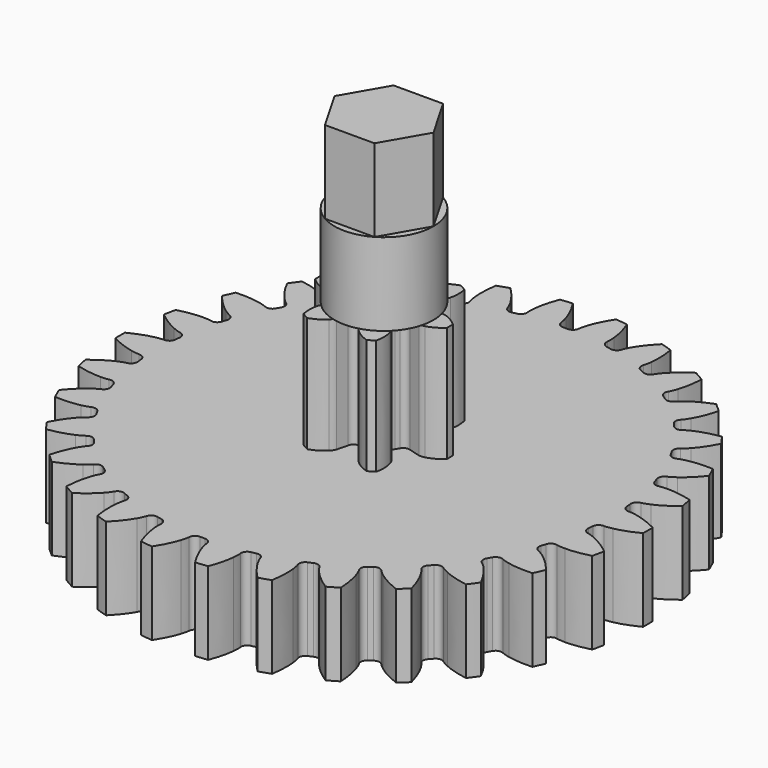
from build123d import *

# Parameters (mm, degrees)
PAD_DEPTH    = 12
PAD001_DEPTH = 5
SKETCH001_R  = 3
PAD002_DEPTH = 5
PAD003_DEPTH = 10
POCKET_DEPTH = 4


with BuildPart() as part:
    # InvoluteGear → Pad (new body)
    with BuildSketch(Plane.XY):
        with BuildLine():
            Line((2.048977, -0.581887), (2.72703, -0.773279))
            add(Edge.make_bspline(
                [(2.72703, -0.773279), (2.765243, -0.779962), (2.879401, -0.792186), (3.077442, -0.74689)],
                knots=[0, 0, 0, 0, 1, 1, 1, 1], degree=3))
            add(Edge.make_bspline(
                [(3.077442, -0.74689), (3.310056, -0.690259), (3.633581, -0.553387), (3.995454, -0.233784)],
                knots=[0, 0, 0, 0, 1, 1, 1, 1], degree=3))
            ThreePointArc((3.995454, -0.233784), (4.001146, 0.000635), (3.993092, 0.234985))
            add(Edge.make_bspline(
                [(3.993092, 0.234985), (3.633581, 0.553387), (3.310056, 0.690259), (3.077442, 0.74689)],
                knots=[0, 0, 0, 0, 1, 1, 1, 1], degree=3))
            add(Edge.make_bspline(
                [(3.077442, 0.74689), (2.879401, 0.792186), (2.765243, 0.779962), (2.72703, 0.773279)],
                knots=[0, 0, 0, 0, 1, 1, 1, 1], degree=3))
            Line((2.72703, 0.773279), (2.048977, 0.581887))
            ThreePointArc((2.048977, 0.581887), (1.775589, 0.582403), (1.5733, 0.766307))
            ThreePointArc((1.5733, 0.766307), (1.515544, 0.875), (1.450292, 0.979364))
            ThreePointArc((1.450292, 0.979364), (1.39217, 1.246504), (1.528417, 1.483523))
            Line((1.528417, 1.483523), (2.033194, 1.975037))
            add(Edge.make_bspline(
                [(2.033194, 1.975037), (2.058089, 2.00479), (2.125754, 2.097541), (2.185546, 2.291698)],
                knots=[0, 0, 0, 0, 1, 1, 1, 1], degree=3))
            add(Edge.make_bspline(
                [(2.185546, 2.291698), (2.25281, 2.521463), (2.296038, 2.87008), (2.20019, 3.343273)],
                knots=[0, 0, 0, 0, 1, 1, 1, 1], degree=3))
            ThreePointArc((2.20019, 3.343273), (2.000023, 3.465412), (1.793043, 3.575611))
            add(Edge.make_bspline(
                [(1.793043, 3.575611), (1.337543, 3.423467), (1.057246, 3.211722), (0.891895, 3.038588)],
                knots=[0, 0, 0, 0, 1, 1, 1, 1], degree=3))
            add(Edge.make_bspline(
                [(0.891895, 3.038588), (0.753647, 2.889728), (0.707154, 2.784752), (0.693835, 2.748317)],
                knots=[0, 0, 0, 0, 1, 1, 1, 1], degree=3))
            Line((0.693835, 2.748317), (0.52056, 2.06541))
            ThreePointArc((0.52056, 2.06541), (0.383419, 1.828907), (0.123009, 1.745671))
            ThreePointArc((0.123009, 1.745671), (0, 1.75), (-0.123009, 1.745671))
            ThreePointArc((-0.123009, 1.745671), (-0.383419, 1.828907), (-0.52056, 2.06541))
            Line((-0.52056, 2.06541), (-0.693835, 2.748317))
            add(Edge.make_bspline(
                [(-0.693835, 2.748317), (-0.707154, 2.784752), (-0.753647, 2.889728), (-0.891895, 3.038588)],
                knots=[0, 0, 0, 0, 1, 1, 1, 1], degree=3))
            add(Edge.make_bspline(
                [(-0.891895, 3.038588), (-1.057246, 3.211722), (-1.337543, 3.423467), (-1.795264, 3.577057)],
                knots=[0, 0, 0, 0, 1, 1, 1, 1], degree=3))
            ThreePointArc((-1.795264, 3.577057), (-2.001123, 3.464777), (-2.200049, 3.340627))
            add(Edge.make_bspline(
                [(-2.200049, 3.340627), (-2.296038, 2.87008), (-2.25281, 2.521463), (-2.185546, 2.291698)],
                knots=[0, 0, 0, 0, 1, 1, 1, 1], degree=3))
            add(Edge.make_bspline(
                [(-2.185546, 2.291698), (-2.125754, 2.097541), (-2.058089, 2.00479), (-2.033194, 1.975037)],
                knots=[0, 0, 0, 0, 1, 1, 1, 1], degree=3))
            Line((-2.033194, 1.975037), (-1.528417, 1.483523))
            ThreePointArc((-1.528417, 1.483523), (-1.39217, 1.246504), (-1.450292, 0.979364))
            ThreePointArc((-1.450292, 0.979364), (-1.515544, 0.875), (-1.5733, 0.766307))
            ThreePointArc((-1.5733, 0.766307), (-1.775589, 0.582403), (-2.048977, 0.581887))
            Line((-2.048977, 0.581887), (-2.72703, 0.773279))
            add(Edge.make_bspline(
                [(-2.72703, 0.773279), (-2.765243, 0.779962), (-2.879401, 0.792186), (-3.077442, 0.74689)],
                knots=[0, 0, 0, 0, 1, 1, 1, 1], degree=3))
            add(Edge.make_bspline(
                [(-3.077442, 0.74689), (-3.310056, 0.690259), (-3.633581, 0.553387), (-3.995454, 0.233784)],
                knots=[0, 0, 0, 0, 1, 1, 1, 1], degree=3))
            ThreePointArc((-3.995454, 0.233784), (-4.001146, -0.000635), (-3.993092, -0.234985))
            add(Edge.make_bspline(
                [(-3.993092, -0.234985), (-3.633581, -0.553387), (-3.310056, -0.690259), (-3.077442, -0.74689)],
                knots=[0, 0, 0, 0, 1, 1, 1, 1], degree=3))
            add(Edge.make_bspline(
                [(-3.077442, -0.74689), (-2.879401, -0.792186), (-2.765243, -0.779962), (-2.72703, -0.773279)],
                knots=[0, 0, 0, 0, 1, 1, 1, 1], degree=3))
            Line((-2.72703, -0.773279), (-2.048977, -0.581887))
            ThreePointArc((-2.048977, -0.581887), (-1.775589, -0.582403), (-1.5733, -0.766307))
            ThreePointArc((-1.5733, -0.766307), (-1.515544, -0.875), (-1.450292, -0.979364))
            ThreePointArc((-1.450292, -0.979364), (-1.39217, -1.246504), (-1.528417, -1.483523))
            Line((-1.528417, -1.483523), (-2.033194, -1.975037))
            add(Edge.make_bspline(
                [(-2.033194, -1.975037), (-2.058089, -2.00479), (-2.125754, -2.097541), (-2.185546, -2.291698)],
                knots=[0, 0, 0, 0, 1, 1, 1, 1], degree=3))
            add(Edge.make_bspline(
                [(-2.185546, -2.291698), (-2.25281, -2.521463), (-2.296038, -2.87008), (-2.20019, -3.343273)],
                knots=[0, 0, 0, 0, 1, 1, 1, 1], degree=3))
            ThreePointArc((-2.20019, -3.343273), (-2.000023, -3.465412), (-1.793043, -3.575611))
            add(Edge.make_bspline(
                [(-1.793043, -3.575611), (-1.337543, -3.423467), (-1.057246, -3.211722), (-0.891895, -3.038588)],
                knots=[0, 0, 0, 0, 1, 1, 1, 1], degree=3))
            add(Edge.make_bspline(
                [(-0.891895, -3.038588), (-0.753647, -2.889728), (-0.707154, -2.784752), (-0.693835, -2.748317)],
                knots=[0, 0, 0, 0, 1, 1, 1, 1], degree=3))
            Line((-0.693835, -2.748317), (-0.52056, -2.06541))
            ThreePointArc((-0.52056, -2.06541), (-0.383419, -1.828907), (-0.123009, -1.745671))
            ThreePointArc((-0.123009, -1.745671), (0, -1.75), (0.123009, -1.745671))
            ThreePointArc((0.123009, -1.745671), (0.383419, -1.828907), (0.52056, -2.06541))
            Line((0.52056, -2.06541), (0.693835, -2.748317))
            add(Edge.make_bspline(
                [(0.693835, -2.748317), (0.707154, -2.784752), (0.753647, -2.889728), (0.891895, -3.038588)],
                knots=[0, 0, 0, 0, 1, 1, 1, 1], degree=3))
            add(Edge.make_bspline(
                [(0.891895, -3.038588), (1.057246, -3.211722), (1.337543, -3.423467), (1.795264, -3.577057)],
                knots=[0, 0, 0, 0, 1, 1, 1, 1], degree=3))
            ThreePointArc((1.795264, -3.577057), (2.001123, -3.464777), (2.200049, -3.340627))
            add(Edge.make_bspline(
                [(2.200049, -3.340627), (2.296038, -2.87008), (2.25281, -2.521463), (2.185546, -2.291698)],
                knots=[0, 0, 0, 0, 1, 1, 1, 1], degree=3))
            add(Edge.make_bspline(
                [(2.185546, -2.291698), (2.125754, -2.097541), (2.058089, -2.00479), (2.033194, -1.975037)],
                knots=[0, 0, 0, 0, 1, 1, 1, 1], degree=3))
            Line((2.033194, -1.975037), (1.528417, -1.483523))
            ThreePointArc((1.528417, -1.483523), (1.39217, -1.246504), (1.450292, -0.979364))
            ThreePointArc((1.450292, -0.979364), (1.515544, -0.875), (1.5733, -0.766307))
            ThreePointArc((1.5733, -0.766307), (1.775589, -0.582403), (2.048977, -0.581887))
        make_face()
    extrude(amount=PAD_DEPTH)

    # InvoluteGear001 → Pad001 (join)
    with BuildSketch(Plane.XY):
        with BuildLine():
            add(Edge.make_bspline(
                [(14.083166, -0.948031), (14.138173, -0.948792), (14.304682, -0.945211), (14.582606, -0.887809)],
                knots=[0, 0, 0, 0, 1, 1, 1, 1], degree=3))
            add(Edge.make_bspline(
                [(14.582606, -0.887809), (14.914817, -0.818423), (15.395754, -0.672743), (15.996773, -0.368316)],
                knots=[0, 0, 0, 0, 1, 1, 1, 1], degree=3))
            ThreePointArc((15.996773, -0.368316), (16.000506, 0.000181), (15.995752, 0.368667))
            add(Edge.make_bspline(
                [(15.995752, 0.368667), (15.395754, 0.672743), (14.914817, 0.818423), (14.582606, 0.887809)],
                knots=[0, 0, 0, 0, 1, 1, 1, 1], degree=3))
            add(Edge.make_bspline(
                [(14.582606, 0.887809), (14.304682, 0.945211), (14.138173, 0.948792), (14.083677, 0.94803)],
                knots=[0, 0, 0, 0, 1, 1, 1, 1], degree=3))
            ThreePointArc((14.083677, 0.94803), (13.817723, 1.041296), (13.689156, 1.292096))
            ThreePointArc((13.689156, 1.292096), (13.674676, 1.437266), (13.658657, 1.582275))
            ThreePointArc((13.658657, 1.582275), (13.732127, 1.854108), (13.972522, 2.00074))
            add(Edge.make_bspline(
                [(13.972522, 2.00074), (14.026485, 2.011433), (14.18861, 2.049555), (14.448526, 2.163486)],
                knots=[0, 0, 0, 0, 1, 1, 1, 1], degree=3))
            add(Edge.make_bspline(
                [(14.448526, 2.163486), (14.759052, 2.300427), (15.199191, 2.542915), (15.723783, 2.965649)],
                knots=[0, 0, 0, 0, 1, 1, 1, 1], degree=3))
            ThreePointArc((15.723783, 2.965649), (15.650819, 3.32687), (15.569556, 3.686315))
            add(Edge.make_bspline(
                [(15.569556, 3.686315), (14.919449, 3.858999), (14.418733, 3.901503), (14.079355, 3.900302)],
                knots=[0, 0, 0, 0, 1, 1, 1, 1], degree=3))
            add(Edge.make_bspline(
                [(14.079355, 3.900302), (13.79557, 3.898666), (13.631955, 3.86755), (13.578808, 3.855474)],
                knots=[0, 0, 0, 0, 1, 1, 1, 1], degree=3))
            ThreePointArc((13.578808, 3.855474), (13.299275, 3.891407), (13.121373, 4.109997))
            ThreePointArc((13.121373, 4.109997), (13.077027, 4.248984), (13.031209, 4.387493))
            ThreePointArc((13.031209, 4.387493), (13.046556, 4.668661), (13.251211, 4.86207))
            add(Edge.make_bspline(
                [(13.251211, 4.86207), (13.301772, 4.883749), (13.452429, 4.954745), (13.682977, 5.120227)],
                knots=[0, 0, 0, 0, 1, 1, 1, 1], degree=3))
            add(Edge.make_bspline(
                [(13.682977, 5.120227), (13.958246, 5.318736), (14.33835, 5.647436), (14.763587, 6.17)],
                knots=[0, 0, 0, 0, 1, 1, 1, 1], degree=3))
            ThreePointArc((14.763587, 6.17), (14.617116, 6.508158), (14.462896, 6.842853))
            add(Edge.make_bspline(
                [(14.462896, 6.842853), (13.791092, 6.876599), (13.292481, 6.814069), (12.960769, 6.742333)],
                knots=[0, 0, 0, 0, 1, 1, 1, 1], degree=3))
            add(Edge.make_bspline(
                [(12.960769, 6.742333), (12.683525, 6.681731), (12.529956, 6.617278), (12.48048, 6.594416)],
                knots=[0, 0, 0, 0, 1, 1, 1, 1], degree=3))
            ThreePointArc((12.48048, 6.594416), (12.199584, 6.571445), (11.980123, 6.74827))
            ThreePointArc((11.980123, 6.74827), (11.907849, 6.875), (11.834235, 7.000956))
            ThreePointArc((11.834235, 7.000956), (11.790788, 7.279171), (11.950759, 7.510904))
            add(Edge.make_bspline(
                [(11.950759, 7.510904), (11.995708, 7.542621), (12.128311, 7.643389), (12.319417, 7.853188)],
                knots=[0, 0, 0, 0, 1, 1, 1, 1], degree=3))
            add(Edge.make_bspline(
                [(12.319417, 7.853188), (12.547397, 8.104592), (12.850855, 8.505137), (13.158152, 9.104693)],
                knots=[0, 0, 0, 0, 1, 1, 1, 1], degree=3))
            ThreePointArc((13.158152, 9.104693), (12.944575, 9.405009), (12.724138, 9.700325))
            add(Edge.make_bspline(
                [(12.724138, 9.700325), (12.059998, 9.593658), (11.585284, 9.428828), (11.275735, 9.289693)],
                knots=[0, 0, 0, 0, 1, 1, 1, 1], degree=3))
            add(Edge.make_bspline(
                [(11.275735, 9.289693), (11.01715, 9.172772), (10.880337, 9.077798), (10.836696, 9.04515)],
                knots=[0, 0, 0, 0, 1, 1, 1, 1], degree=3))
            ThreePointArc((10.836696, 9.04515), (10.566714, 8.96428), (10.315284, 9.091612))
            ThreePointArc((10.315284, 9.091612), (10.218241, 9.200546), (10.120048, 9.308444))
            ThreePointArc((10.120048, 9.308444), (10.019707, 9.571546), (10.128002, 9.831475))
            add(Edge.make_bspline(
                [(10.128002, 9.831475), (10.165374, 9.871845), (10.274129, 9.997981), (10.417438, 10.242928)],
                knots=[0, 0, 0, 0, 1, 1, 1, 1], degree=3))
            add(Edge.make_bspline(
                [(10.417438, 10.242928), (10.588167, 10.536237), (10.801716, 10.991122), (10.977643, 11.641468)],
                knots=[0, 0, 0, 0, 1, 1, 1, 1], degree=3))
            ThreePointArc((10.977643, 11.641468), (10.706294, 11.890815), (10.429274, 12.133847))
            add(Edge.make_bspline(
                [(10.429274, 12.133847), (9.801825, 11.891428), (9.371754, 11.631501), (9.097897, 11.431048)],
                knots=[0, 0, 0, 0, 1, 1, 1, 1], degree=3))
            add(Edge.make_bspline(
                [(9.097897, 11.431048), (8.869272, 11.262919), (8.755195, 11.141576), (8.719296, 11.100567)],
                knots=[0, 0, 0, 0, 1, 1, 1, 1], degree=3))
            ThreePointArc((8.719296, 11.100567), (8.472027, 10.965332), (8.199618, 11.037607))
            ThreePointArc((8.199618, 11.037607), (8.082047, 11.123984), (7.963566, 11.209109))
            ThreePointArc((7.963566, 11.209109), (7.810716, 11.445599), (7.862602, 11.722364))
            add(Edge.make_bspline(
                [(7.862602, 11.722364), (7.890764, 11.769621), (7.970917, 11.915612), (8.060168, 12.185003)],
                knots=[0, 0, 0, 0, 1, 1, 1, 1], degree=3))
            add(Edge.make_bspline(
                [(8.060168, 12.185003), (8.166184, 12.507399), (8.28049, 12.996743), (8.317358, 13.669454)],
                knots=[0, 0, 0, 0, 1, 1, 1, 1], degree=3))
            ThreePointArc((8.317358, 13.669454), (8.000096, 13.856936), (7.678601, 14.037061))
            add(Edge.make_bspline(
                [(7.678601, 14.037061), (7.115264, 13.669486), (6.748634, 13.325822), (6.522438, 13.072811)],
                knots=[0, 0, 0, 0, 1, 1, 1, 1], degree=3))
            add(Edge.make_bspline(
                [(6.522438, 13.072811), (6.333764, 12.860823), (6.247409, 12.718413), (6.220821, 12.670837)],
                knots=[0, 0, 0, 0, 1, 1, 1, 1], degree=3))
            ThreePointArc((6.220821, 12.670837), (6.007072, 12.487147), (5.72559, 12.501205))
            ThreePointArc((5.72559, 12.501205), (5.592629, 12.56125), (5.459038, 12.619881))
            ThreePointArc((5.459038, 12.619881), (5.260359, 12.819424), (5.253569, 13.100929))
            add(Edge.make_bspline(
                [(5.253569, 13.100929), (5.27129, 13.153009), (5.319339, 13.312474), (5.350629, 13.594534)],
                knots=[0, 0, 0, 0, 1, 1, 1, 1], degree=3))
            add(Edge.make_bspline(
                [(5.350629, 13.594534), (5.387298, 13.931928), (5.397366, 14.434343), (5.293564, 15.100019)],
                knots=[0, 0, 0, 0, 1, 1, 1, 1], degree=3))
            ThreePointArc((5.293564, 15.100019), (4.944256, 15.217442), (4.592336, 15.326789))
            add(Edge.make_bspline(
                [(4.592336, 15.326789), (4.117733, 14.850121), (3.830566, 14.437741), (3.661917, 14.14323)],
                knots=[0, 0, 0, 0, 1, 1, 1, 1], degree=3))
            add(Edge.make_bspline(
                [(3.661917, 14.14323), (3.521441, 13.896647), (3.466581, 13.739395), (3.450466, 13.68733)],
                knots=[0, 0, 0, 0, 1, 1, 1, 1], degree=3))
            ThreePointArc((3.450466, 13.68733), (3.27958, 13.463213), (3.001325, 13.418441))
            ThreePointArc((3.001325, 13.418441), (2.858786, 13.44953), (2.715925, 13.479104))
            ThreePointArc((2.715925, 13.479104), (2.480099, 13.632979), (2.41493, 13.906921))
            add(Edge.make_bspline(
                [(2.41493, 13.906921), (2.421436, 13.961547), (2.435279, 14.127518), (2.407242, 14.409919)],
                knots=[0, 0, 0, 0, 1, 1, 1, 1], degree=3))
            add(Edge.make_bspline(
                [(2.407242, 14.409919), (2.372962, 14.747564), (2.278352, 15.241094), (2.038417, 15.870642)],
                knots=[0, 0, 0, 0, 1, 1, 1, 1], degree=3))
            ThreePointArc((2.038417, 15.870642), (1.672328, 15.912873), (1.305364, 15.946662))
            add(Edge.make_bspline(
                [(1.305364, 15.946662), (0.940237, 15.381735), (0.745084, 14.918661), (0.641352, 14.595522)],
                knots=[0, 0, 0, 0, 1, 1, 1, 1], degree=3))
            add(Edge.make_bspline(
                [(0.641352, 14.595522), (0.555214, 14.32512), (0.534247, 14.159899), (0.529309, 14.105621)],
                knots=[0, 0, 0, 0, 1, 1, 1, 1], degree=3))
            ThreePointArc((0.529309, 14.105621), (0.408754, 13.850873), (0.145888, 13.749226))
            ThreePointArc((0.145888, 13.749226), (0, 13.75), (-0.145888, 13.749226))
            ThreePointArc((-0.145888, 13.749226), (-0.408553, 13.850708), (-0.529254, 14.105113))
            add(Edge.make_bspline(
                [(-0.529254, 14.105113), (-0.534247, 14.159899), (-0.555214, 14.32512), (-0.641352, 14.595522)],
                knots=[0, 0, 0, 0, 1, 1, 1, 1], degree=3))
            add(Edge.make_bspline(
                [(-0.641352, 14.595522), (-0.745084, 14.918661), (-0.940237, 15.381735), (-1.30582, 15.947641)],
                knots=[0, 0, 0, 0, 1, 1, 1, 1], degree=3))
            ThreePointArc((-1.30582, 15.947641), (-1.672689, 15.912835), (-2.038659, 15.869589))
            add(Edge.make_bspline(
                [(-2.038659, 15.869589), (-2.278352, 15.241094), (-2.372962, 14.747564), (-2.407242, 14.409919)],
                knots=[0, 0, 0, 0, 1, 1, 1, 1], degree=3))
            add(Edge.make_bspline(
                [(-2.407242, 14.409919), (-2.435279, 14.127518), (-2.421436, 13.961547), (-2.414981, 13.907429)],
                knots=[0, 0, 0, 0, 1, 1, 1, 1], degree=3))
            ThreePointArc((-2.414981, 13.907429), (-2.479937, 13.633183), (-2.715925, 13.479104))
            ThreePointArc((-2.715925, 13.479104), (-2.858786, 13.44953), (-3.001325, 13.418441))
            ThreePointArc((-3.001325, 13.418441), (-3.279349, 13.463094), (-3.450306, 13.686845))
            add(Edge.make_bspline(
                [(-3.450306, 13.686845), (-3.466581, 13.739395), (-3.521441, 13.896647), (-3.661917, 14.14323)],
                knots=[0, 0, 0, 0, 1, 1, 1, 1], degree=3))
            add(Edge.make_bspline(
                [(-3.661917, 14.14323), (-3.830566, 14.437741), (-4.117733, 14.850121), (-4.592985, 15.327651)],
                knots=[0, 0, 0, 0, 1, 1, 1, 1], degree=3))
            ThreePointArc((-4.592985, 15.327651), (-4.944601, 15.21733), (-5.293583, 15.09894))
            add(Edge.make_bspline(
                [(-5.293583, 15.09894), (-5.397366, 14.434343), (-5.387298, 13.931928), (-5.350629, 13.594534)],
                knots=[0, 0, 0, 0, 1, 1, 1, 1], degree=3))
            add(Edge.make_bspline(
                [(-5.350629, 13.594534), (-5.319339, 13.312474), (-5.27129, 13.153009), (-5.253725, 13.101415)],
                knots=[0, 0, 0, 0, 1, 1, 1, 1], degree=3))
            ThreePointArc((-5.253725, 13.101415), (-5.260242, 12.819657), (-5.459038, 12.619881))
            ThreePointArc((-5.459038, 12.619881), (-5.592629, 12.56125), (-5.72559, 12.501205))
            ThreePointArc((-5.72559, 12.501205), (-6.006822, 12.487078), (-6.220564, 12.670395))
            add(Edge.make_bspline(
                [(-6.220564, 12.670395), (-6.247409, 12.718413), (-6.333764, 12.860823), (-6.522438, 13.072811)],
                knots=[0, 0, 0, 0, 1, 1, 1, 1], degree=3))
            add(Edge.make_bspline(
                [(-6.522438, 13.072811), (-6.748634, 13.325822), (-7.115264, 13.669486), (-7.679415, 14.03777)],
                knots=[0, 0, 0, 0, 1, 1, 1, 1], degree=3))
            ThreePointArc((-7.679415, 14.03777), (-8.00041, 13.856754), (-8.317151, 13.668394))
            add(Edge.make_bspline(
                [(-8.317151, 13.668394), (-8.28049, 12.996743), (-8.166184, 12.507399), (-8.060168, 12.185003)],
                knots=[0, 0, 0, 0, 1, 1, 1, 1], degree=3))
            add(Edge.make_bspline(
                [(-8.060168, 12.185003), (-7.970917, 11.915612), (-7.890764, 11.769621), (-7.862856, 11.722807)],
                knots=[0, 0, 0, 0, 1, 1, 1, 1], degree=3))
            ThreePointArc((-7.862856, 11.722807), (-7.81065, 11.445851), (-7.963566, 11.209109))
            ThreePointArc((-7.963566, 11.209109), (-8.082047, 11.123984), (-8.199618, 11.037607))
            ThreePointArc((-8.199618, 11.037607), (-8.471768, 10.965317), (-8.718953, 11.100189))
            add(Edge.make_bspline(
                [(-8.718953, 11.100189), (-8.755195, 11.141576), (-8.869272, 11.262919), (-9.097897, 11.431048)],
                knots=[0, 0, 0, 0, 1, 1, 1, 1], degree=3))
            add(Edge.make_bspline(
                [(-9.097897, 11.431048), (-9.371754, 11.631501), (-9.801825, 11.891428), (-10.430218, 12.134371)],
                knots=[0, 0, 0, 0, 1, 1, 1, 1], degree=3))
            ThreePointArc((-10.430218, 12.134371), (-10.706563, 11.890572), (-10.977221, 11.640474))
            add(Edge.make_bspline(
                [(-10.977221, 11.640474), (-10.801716, 10.991122), (-10.588167, 10.536237), (-10.417438, 10.242928)],
                knots=[0, 0, 0, 0, 1, 1, 1, 1], degree=3))
            add(Edge.make_bspline(
                [(-10.417438, 10.242928), (-10.274129, 9.997981), (-10.165374, 9.871845), (-10.128342, 9.831856)],
                knots=[0, 0, 0, 0, 1, 1, 1, 1], degree=3))
            ThreePointArc((-10.128342, 9.831856), (-10.019695, 9.571806), (-10.120048, 9.308444))
            ThreePointArc((-10.120048, 9.308444), (-10.218241, 9.200546), (-10.315284, 9.091612))
            ThreePointArc((-10.315284, 9.091612), (-10.566457, 8.964319), (-10.836282, 9.044851))
            add(Edge.make_bspline(
                [(-10.836282, 9.044851), (-10.880337, 9.077798), (-11.01715, 9.172772), (-11.275735, 9.289693)],
                knots=[0, 0, 0, 0, 1, 1, 1, 1], degree=3))
            add(Edge.make_bspline(
                [(-11.275735, 9.289693), (-11.585284, 9.428828), (-12.059998, 9.593658), (-12.72517, 9.700641)],
                knots=[0, 0, 0, 0, 1, 1, 1, 1], degree=3))
            ThreePointArc((-12.72517, 9.700641), (-12.944788, 9.404715), (-13.157532, 9.103809))
            add(Edge.make_bspline(
                [(-13.157532, 9.103809), (-12.850855, 8.505137), (-12.547397, 8.104592), (-12.319417, 7.853188)],
                knots=[0, 0, 0, 0, 1, 1, 1, 1], degree=3))
            add(Edge.make_bspline(
                [(-12.319417, 7.853188), (-12.128311, 7.643389), (-11.995708, 7.542621), (-11.951172, 7.511205)],
                knots=[0, 0, 0, 0, 1, 1, 1, 1], degree=3))
            ThreePointArc((-11.951172, 7.511205), (-11.790831, 7.279427), (-11.834235, 7.000956))
            ThreePointArc((-11.834235, 7.000956), (-11.907849, 6.875), (-11.980123, 6.74827))
            ThreePointArc((-11.980123, 6.74827), (-12.199341, 6.571537), (-12.480013, 6.594209))
            add(Edge.make_bspline(
                [(-12.480013, 6.594209), (-12.529956, 6.617278), (-12.683525, 6.681731), (-12.960769, 6.742333)],
                knots=[0, 0, 0, 0, 1, 1, 1, 1], degree=3))
            add(Edge.make_bspline(
                [(-12.960769, 6.742333), (-13.292481, 6.814069), (-13.791092, 6.876599), (-14.463972, 6.842947)],
                knots=[0, 0, 0, 0, 1, 1, 1, 1], degree=3))
            ThreePointArc((-14.463972, 6.842947), (-14.617264, 6.507827), (-14.762797, 6.169264))
            add(Edge.make_bspline(
                [(-14.762797, 6.169264), (-14.33835, 5.647436), (-13.958246, 5.318736), (-13.682977, 5.120227)],
                knots=[0, 0, 0, 0, 1, 1, 1, 1], degree=3))
            add(Edge.make_bspline(
                [(-13.682977, 5.120227), (-13.452429, 4.954745), (-13.301772, 4.883749), (-13.251677, 4.862279)],
                knots=[0, 0, 0, 0, 1, 1, 1, 1], degree=3))
            ThreePointArc((-13.251677, 4.862279), (-13.046651, 4.668903), (-13.031209, 4.387493))
            ThreePointArc((-13.031209, 4.387493), (-13.077027, 4.248984), (-13.121373, 4.109997))
            ThreePointArc((-13.121373, 4.109997), (-13.299055, 3.891547), (-13.578308, 3.855369))
            add(Edge.make_bspline(
                [(-13.578308, 3.855369), (-13.631955, 3.86755), (-13.79557, 3.898666), (-14.079355, 3.900302)],
                knots=[0, 0, 0, 0, 1, 1, 1, 1], degree=3))
            add(Edge.make_bspline(
                [(-14.079355, 3.900302), (-14.418733, 3.901503), (-14.919449, 3.858999), (-15.570628, 3.686184)],
                knots=[0, 0, 0, 0, 1, 1, 1, 1], degree=3))
            ThreePointArc((-15.570628, 3.686184), (-15.650895, 3.326515), (-15.722857, 2.965093))
            add(Edge.make_bspline(
                [(-15.722857, 2.965093), (-15.199191, 2.542915), (-14.759052, 2.300427), (-14.448526, 2.163486)],
                knots=[0, 0, 0, 0, 1, 1, 1, 1], degree=3))
            add(Edge.make_bspline(
                [(-14.448526, 2.163486), (-14.18861, 2.049555), (-14.026485, 2.011433), (-13.973021, 2.000848)],
                knots=[0, 0, 0, 0, 1, 1, 1, 1], degree=3))
            ThreePointArc((-13.973021, 2.000848), (-13.73227, 1.854325), (-13.658657, 1.582275))
            ThreePointArc((-13.658657, 1.582275), (-13.674676, 1.437266), (-13.689156, 1.292096))
            ThreePointArc((-13.689156, 1.292096), (-13.817537, 1.041479), (-14.083166, 0.948031))
            add(Edge.make_bspline(
                [(-14.083166, 0.948031), (-14.138173, 0.948792), (-14.304682, 0.945211), (-14.582606, 0.887809)],
                knots=[0, 0, 0, 0, 1, 1, 1, 1], degree=3))
            add(Edge.make_bspline(
                [(-14.582606, 0.887809), (-14.914817, 0.818423), (-15.395754, 0.672743), (-15.996773, 0.368316)],
                knots=[0, 0, 0, 0, 1, 1, 1, 1], degree=3))
            ThreePointArc((-15.996773, 0.368316), (-16.000506, -0.000181), (-15.995752, -0.368667))
            add(Edge.make_bspline(
                [(-15.995752, -0.368667), (-15.395754, -0.672743), (-14.914817, -0.818423), (-14.582606, -0.887809)],
                knots=[0, 0, 0, 0, 1, 1, 1, 1], degree=3))
            add(Edge.make_bspline(
                [(-14.582606, -0.887809), (-14.304682, -0.945211), (-14.138173, -0.948792), (-14.083677, -0.94803)],
                knots=[0, 0, 0, 0, 1, 1, 1, 1], degree=3))
            ThreePointArc((-14.083677, -0.94803), (-13.817723, -1.041296), (-13.689156, -1.292096))
            ThreePointArc((-13.689156, -1.292096), (-13.674676, -1.437266), (-13.658657, -1.582275))
            ThreePointArc((-13.658657, -1.582275), (-13.732127, -1.854108), (-13.972522, -2.00074))
            add(Edge.make_bspline(
                [(-13.972522, -2.00074), (-14.026485, -2.011433), (-14.18861, -2.049555), (-14.448526, -2.163486)],
                knots=[0, 0, 0, 0, 1, 1, 1, 1], degree=3))
            add(Edge.make_bspline(
                [(-14.448526, -2.163486), (-14.759052, -2.300427), (-15.199191, -2.542915), (-15.723783, -2.965649)],
                knots=[0, 0, 0, 0, 1, 1, 1, 1], degree=3))
            ThreePointArc((-15.723783, -2.965649), (-15.650819, -3.32687), (-15.569556, -3.686315))
            add(Edge.make_bspline(
                [(-15.569556, -3.686315), (-14.919449, -3.858999), (-14.418733, -3.901503), (-14.079355, -3.900302)],
                knots=[0, 0, 0, 0, 1, 1, 1, 1], degree=3))
            add(Edge.make_bspline(
                [(-14.079355, -3.900302), (-13.79557, -3.898666), (-13.631955, -3.86755), (-13.578808, -3.855474)],
                knots=[0, 0, 0, 0, 1, 1, 1, 1], degree=3))
            ThreePointArc((-13.578808, -3.855474), (-13.299275, -3.891407), (-13.121373, -4.109997))
            ThreePointArc((-13.121373, -4.109997), (-13.077027, -4.248984), (-13.031209, -4.387493))
            ThreePointArc((-13.031209, -4.387493), (-13.046556, -4.668661), (-13.251211, -4.86207))
            add(Edge.make_bspline(
                [(-13.251211, -4.86207), (-13.301772, -4.883749), (-13.452429, -4.954745), (-13.682977, -5.120227)],
                knots=[0, 0, 0, 0, 1, 1, 1, 1], degree=3))
            add(Edge.make_bspline(
                [(-13.682977, -5.120227), (-13.958246, -5.318736), (-14.33835, -5.647436), (-14.763587, -6.17)],
                knots=[0, 0, 0, 0, 1, 1, 1, 1], degree=3))
            ThreePointArc((-14.763587, -6.17), (-14.617116, -6.508158), (-14.462896, -6.842853))
            add(Edge.make_bspline(
                [(-14.462896, -6.842853), (-13.791092, -6.876599), (-13.292481, -6.814069), (-12.960769, -6.742333)],
                knots=[0, 0, 0, 0, 1, 1, 1, 1], degree=3))
            add(Edge.make_bspline(
                [(-12.960769, -6.742333), (-12.683525, -6.681731), (-12.529956, -6.617278), (-12.48048, -6.594416)],
                knots=[0, 0, 0, 0, 1, 1, 1, 1], degree=3))
            ThreePointArc((-12.48048, -6.594416), (-12.199584, -6.571445), (-11.980123, -6.74827))
            ThreePointArc((-11.980123, -6.74827), (-11.907849, -6.875), (-11.834235, -7.000956))
            ThreePointArc((-11.834235, -7.000956), (-11.790788, -7.279171), (-11.950759, -7.510904))
            add(Edge.make_bspline(
                [(-11.950759, -7.510904), (-11.995708, -7.542621), (-12.128311, -7.643389), (-12.319417, -7.853188)],
                knots=[0, 0, 0, 0, 1, 1, 1, 1], degree=3))
            add(Edge.make_bspline(
                [(-12.319417, -7.853188), (-12.547397, -8.104592), (-12.850855, -8.505137), (-13.158152, -9.104693)],
                knots=[0, 0, 0, 0, 1, 1, 1, 1], degree=3))
            ThreePointArc((-13.158152, -9.104693), (-12.944575, -9.405009), (-12.724138, -9.700325))
            add(Edge.make_bspline(
                [(-12.724138, -9.700325), (-12.059998, -9.593658), (-11.585284, -9.428828), (-11.275735, -9.289693)],
                knots=[0, 0, 0, 0, 1, 1, 1, 1], degree=3))
            add(Edge.make_bspline(
                [(-11.275735, -9.289693), (-11.01715, -9.172772), (-10.880337, -9.077798), (-10.836696, -9.04515)],
                knots=[0, 0, 0, 0, 1, 1, 1, 1], degree=3))
            ThreePointArc((-10.836696, -9.04515), (-10.566714, -8.96428), (-10.315284, -9.091612))
            ThreePointArc((-10.315284, -9.091612), (-10.218241, -9.200546), (-10.120048, -9.308444))
            ThreePointArc((-10.120048, -9.308444), (-10.019707, -9.571546), (-10.128002, -9.831475))
            add(Edge.make_bspline(
                [(-10.128002, -9.831475), (-10.165374, -9.871845), (-10.274129, -9.997981), (-10.417438, -10.242928)],
                knots=[0, 0, 0, 0, 1, 1, 1, 1], degree=3))
            add(Edge.make_bspline(
                [(-10.417438, -10.242928), (-10.588167, -10.536237), (-10.801716, -10.991122), (-10.977643, -11.641468)],
                knots=[0, 0, 0, 0, 1, 1, 1, 1], degree=3))
            ThreePointArc((-10.977643, -11.641468), (-10.706294, -11.890815), (-10.429274, -12.133847))
            add(Edge.make_bspline(
                [(-10.429274, -12.133847), (-9.801825, -11.891428), (-9.371754, -11.631501), (-9.097897, -11.431048)],
                knots=[0, 0, 0, 0, 1, 1, 1, 1], degree=3))
            add(Edge.make_bspline(
                [(-9.097897, -11.431048), (-8.869272, -11.262919), (-8.755195, -11.141576), (-8.719296, -11.100567)],
                knots=[0, 0, 0, 0, 1, 1, 1, 1], degree=3))
            ThreePointArc((-8.719296, -11.100567), (-8.472027, -10.965332), (-8.199618, -11.037607))
            ThreePointArc((-8.199618, -11.037607), (-8.082047, -11.123984), (-7.963566, -11.209109))
            ThreePointArc((-7.963566, -11.209109), (-7.810716, -11.445599), (-7.862602, -11.722364))
            add(Edge.make_bspline(
                [(-7.862602, -11.722364), (-7.890764, -11.769621), (-7.970917, -11.915612), (-8.060168, -12.185003)],
                knots=[0, 0, 0, 0, 1, 1, 1, 1], degree=3))
            add(Edge.make_bspline(
                [(-8.060168, -12.185003), (-8.166184, -12.507399), (-8.28049, -12.996743), (-8.317358, -13.669454)],
                knots=[0, 0, 0, 0, 1, 1, 1, 1], degree=3))
            ThreePointArc((-8.317358, -13.669454), (-8.000096, -13.856936), (-7.678601, -14.037061))
            add(Edge.make_bspline(
                [(-7.678601, -14.037061), (-7.115264, -13.669486), (-6.748634, -13.325822), (-6.522438, -13.072811)],
                knots=[0, 0, 0, 0, 1, 1, 1, 1], degree=3))
            add(Edge.make_bspline(
                [(-6.522438, -13.072811), (-6.333764, -12.860823), (-6.247409, -12.718413), (-6.220821, -12.670837)],
                knots=[0, 0, 0, 0, 1, 1, 1, 1], degree=3))
            ThreePointArc((-6.220821, -12.670837), (-6.007072, -12.487147), (-5.72559, -12.501205))
            ThreePointArc((-5.72559, -12.501205), (-5.592629, -12.56125), (-5.459038, -12.619881))
            ThreePointArc((-5.459038, -12.619881), (-5.260359, -12.819424), (-5.253569, -13.100929))
            add(Edge.make_bspline(
                [(-5.253569, -13.100929), (-5.27129, -13.153009), (-5.319339, -13.312474), (-5.350629, -13.594534)],
                knots=[0, 0, 0, 0, 1, 1, 1, 1], degree=3))
            add(Edge.make_bspline(
                [(-5.350629, -13.594534), (-5.387298, -13.931928), (-5.397366, -14.434343), (-5.293564, -15.100019)],
                knots=[0, 0, 0, 0, 1, 1, 1, 1], degree=3))
            ThreePointArc((-5.293564, -15.100019), (-4.944256, -15.217442), (-4.592336, -15.326789))
            add(Edge.make_bspline(
                [(-4.592336, -15.326789), (-4.117733, -14.850121), (-3.830566, -14.437741), (-3.661917, -14.14323)],
                knots=[0, 0, 0, 0, 1, 1, 1, 1], degree=3))
            add(Edge.make_bspline(
                [(-3.661917, -14.14323), (-3.521441, -13.896647), (-3.466581, -13.739395), (-3.450466, -13.68733)],
                knots=[0, 0, 0, 0, 1, 1, 1, 1], degree=3))
            ThreePointArc((-3.450466, -13.68733), (-3.27958, -13.463213), (-3.001325, -13.418441))
            ThreePointArc((-3.001325, -13.418441), (-2.858786, -13.44953), (-2.715925, -13.479104))
            ThreePointArc((-2.715925, -13.479104), (-2.480099, -13.632979), (-2.41493, -13.906921))
            add(Edge.make_bspline(
                [(-2.41493, -13.906921), (-2.421436, -13.961547), (-2.435279, -14.127518), (-2.407242, -14.409919)],
                knots=[0, 0, 0, 0, 1, 1, 1, 1], degree=3))
            add(Edge.make_bspline(
                [(-2.407242, -14.409919), (-2.372962, -14.747564), (-2.278352, -15.241094), (-2.038417, -15.870642)],
                knots=[0, 0, 0, 0, 1, 1, 1, 1], degree=3))
            ThreePointArc((-2.038417, -15.870642), (-1.672328, -15.912873), (-1.305364, -15.946662))
            add(Edge.make_bspline(
                [(-1.305364, -15.946662), (-0.940237, -15.381735), (-0.745084, -14.918661), (-0.641352, -14.595522)],
                knots=[0, 0, 0, 0, 1, 1, 1, 1], degree=3))
            add(Edge.make_bspline(
                [(-0.641352, -14.595522), (-0.555214, -14.32512), (-0.534247, -14.159899), (-0.529309, -14.105621)],
                knots=[0, 0, 0, 0, 1, 1, 1, 1], degree=3))
            ThreePointArc((-0.529309, -14.105621), (-0.408754, -13.850873), (-0.145888, -13.749226))
            ThreePointArc((-0.145888, -13.749226), (0, -13.75), (0.145888, -13.749226))
            ThreePointArc((0.145888, -13.749226), (0.408553, -13.850708), (0.529254, -14.105113))
            add(Edge.make_bspline(
                [(0.529254, -14.105113), (0.534247, -14.159899), (0.555214, -14.32512), (0.641352, -14.595522)],
                knots=[0, 0, 0, 0, 1, 1, 1, 1], degree=3))
            add(Edge.make_bspline(
                [(0.641352, -14.595522), (0.745084, -14.918661), (0.940237, -15.381735), (1.30582, -15.947641)],
                knots=[0, 0, 0, 0, 1, 1, 1, 1], degree=3))
            ThreePointArc((1.30582, -15.947641), (1.672689, -15.912835), (2.038659, -15.869589))
            add(Edge.make_bspline(
                [(2.038659, -15.869589), (2.278352, -15.241094), (2.372962, -14.747564), (2.407242, -14.409919)],
                knots=[0, 0, 0, 0, 1, 1, 1, 1], degree=3))
            add(Edge.make_bspline(
                [(2.407242, -14.409919), (2.435279, -14.127518), (2.421436, -13.961547), (2.414981, -13.907429)],
                knots=[0, 0, 0, 0, 1, 1, 1, 1], degree=3))
            ThreePointArc((2.414981, -13.907429), (2.479937, -13.633183), (2.715925, -13.479104))
            ThreePointArc((2.715925, -13.479104), (2.858786, -13.44953), (3.001325, -13.418441))
            ThreePointArc((3.001325, -13.418441), (3.279349, -13.463094), (3.450306, -13.686845))
            add(Edge.make_bspline(
                [(3.450306, -13.686845), (3.466581, -13.739395), (3.521441, -13.896647), (3.661917, -14.14323)],
                knots=[0, 0, 0, 0, 1, 1, 1, 1], degree=3))
            add(Edge.make_bspline(
                [(3.661917, -14.14323), (3.830566, -14.437741), (4.117733, -14.850121), (4.592985, -15.327651)],
                knots=[0, 0, 0, 0, 1, 1, 1, 1], degree=3))
            ThreePointArc((4.592985, -15.327651), (4.944601, -15.21733), (5.293583, -15.09894))
            add(Edge.make_bspline(
                [(5.293583, -15.09894), (5.397366, -14.434343), (5.387298, -13.931928), (5.350629, -13.594534)],
                knots=[0, 0, 0, 0, 1, 1, 1, 1], degree=3))
            add(Edge.make_bspline(
                [(5.350629, -13.594534), (5.319339, -13.312474), (5.27129, -13.153009), (5.253725, -13.101415)],
                knots=[0, 0, 0, 0, 1, 1, 1, 1], degree=3))
            ThreePointArc((5.253725, -13.101415), (5.260242, -12.819657), (5.459038, -12.619881))
            ThreePointArc((5.459038, -12.619881), (5.592629, -12.56125), (5.72559, -12.501205))
            ThreePointArc((5.72559, -12.501205), (6.006822, -12.487078), (6.220564, -12.670395))
            add(Edge.make_bspline(
                [(6.220564, -12.670395), (6.247409, -12.718413), (6.333764, -12.860823), (6.522438, -13.072811)],
                knots=[0, 0, 0, 0, 1, 1, 1, 1], degree=3))
            add(Edge.make_bspline(
                [(6.522438, -13.072811), (6.748634, -13.325822), (7.115264, -13.669486), (7.679415, -14.03777)],
                knots=[0, 0, 0, 0, 1, 1, 1, 1], degree=3))
            ThreePointArc((7.679415, -14.03777), (8.00041, -13.856754), (8.317151, -13.668394))
            add(Edge.make_bspline(
                [(8.317151, -13.668394), (8.28049, -12.996743), (8.166184, -12.507399), (8.060168, -12.185003)],
                knots=[0, 0, 0, 0, 1, 1, 1, 1], degree=3))
            add(Edge.make_bspline(
                [(8.060168, -12.185003), (7.970917, -11.915612), (7.890764, -11.769621), (7.862856, -11.722807)],
                knots=[0, 0, 0, 0, 1, 1, 1, 1], degree=3))
            ThreePointArc((7.862856, -11.722807), (7.81065, -11.445851), (7.963566, -11.209109))
            ThreePointArc((7.963566, -11.209109), (8.082047, -11.123984), (8.199618, -11.037607))
            ThreePointArc((8.199618, -11.037607), (8.471768, -10.965317), (8.718953, -11.100189))
            add(Edge.make_bspline(
                [(8.718953, -11.100189), (8.755195, -11.141576), (8.869272, -11.262919), (9.097897, -11.431048)],
                knots=[0, 0, 0, 0, 1, 1, 1, 1], degree=3))
            add(Edge.make_bspline(
                [(9.097897, -11.431048), (9.371754, -11.631501), (9.801825, -11.891428), (10.430218, -12.134371)],
                knots=[0, 0, 0, 0, 1, 1, 1, 1], degree=3))
            ThreePointArc((10.430218, -12.134371), (10.706563, -11.890572), (10.977221, -11.640474))
            add(Edge.make_bspline(
                [(10.977221, -11.640474), (10.801716, -10.991122), (10.588167, -10.536237), (10.417438, -10.242928)],
                knots=[0, 0, 0, 0, 1, 1, 1, 1], degree=3))
            add(Edge.make_bspline(
                [(10.417438, -10.242928), (10.274129, -9.997981), (10.165374, -9.871845), (10.128342, -9.831856)],
                knots=[0, 0, 0, 0, 1, 1, 1, 1], degree=3))
            ThreePointArc((10.128342, -9.831856), (10.019695, -9.571806), (10.120048, -9.308444))
            ThreePointArc((10.120048, -9.308444), (10.218241, -9.200546), (10.315284, -9.091612))
            ThreePointArc((10.315284, -9.091612), (10.566457, -8.964319), (10.836282, -9.044851))
            add(Edge.make_bspline(
                [(10.836282, -9.044851), (10.880337, -9.077798), (11.01715, -9.172772), (11.275735, -9.289693)],
                knots=[0, 0, 0, 0, 1, 1, 1, 1], degree=3))
            add(Edge.make_bspline(
                [(11.275735, -9.289693), (11.585284, -9.428828), (12.059998, -9.593658), (12.72517, -9.700641)],
                knots=[0, 0, 0, 0, 1, 1, 1, 1], degree=3))
            ThreePointArc((12.72517, -9.700641), (12.944788, -9.404715), (13.157532, -9.103809))
            add(Edge.make_bspline(
                [(13.157532, -9.103809), (12.850855, -8.505137), (12.547397, -8.104592), (12.319417, -7.853188)],
                knots=[0, 0, 0, 0, 1, 1, 1, 1], degree=3))
            add(Edge.make_bspline(
                [(12.319417, -7.853188), (12.128311, -7.643389), (11.995708, -7.542621), (11.951172, -7.511205)],
                knots=[0, 0, 0, 0, 1, 1, 1, 1], degree=3))
            ThreePointArc((11.951172, -7.511205), (11.790831, -7.279427), (11.834235, -7.000956))
            ThreePointArc((11.834235, -7.000956), (11.907849, -6.875), (11.980123, -6.74827))
            ThreePointArc((11.980123, -6.74827), (12.199341, -6.571537), (12.480013, -6.594209))
            add(Edge.make_bspline(
                [(12.480013, -6.594209), (12.529956, -6.617278), (12.683525, -6.681731), (12.960769, -6.742333)],
                knots=[0, 0, 0, 0, 1, 1, 1, 1], degree=3))
            add(Edge.make_bspline(
                [(12.960769, -6.742333), (13.292481, -6.814069), (13.791092, -6.876599), (14.463972, -6.842947)],
                knots=[0, 0, 0, 0, 1, 1, 1, 1], degree=3))
            ThreePointArc((14.463972, -6.842947), (14.617264, -6.507827), (14.762797, -6.169264))
            add(Edge.make_bspline(
                [(14.762797, -6.169264), (14.33835, -5.647436), (13.958246, -5.318736), (13.682977, -5.120227)],
                knots=[0, 0, 0, 0, 1, 1, 1, 1], degree=3))
            add(Edge.make_bspline(
                [(13.682977, -5.120227), (13.452429, -4.954745), (13.301772, -4.883749), (13.251677, -4.862279)],
                knots=[0, 0, 0, 0, 1, 1, 1, 1], degree=3))
            ThreePointArc((13.251677, -4.862279), (13.046651, -4.668903), (13.031209, -4.387493))
            ThreePointArc((13.031209, -4.387493), (13.077027, -4.248984), (13.121373, -4.109997))
            ThreePointArc((13.121373, -4.109997), (13.299055, -3.891547), (13.578308, -3.855369))
            add(Edge.make_bspline(
                [(13.578308, -3.855369), (13.631955, -3.86755), (13.79557, -3.898666), (14.079355, -3.900302)],
                knots=[0, 0, 0, 0, 1, 1, 1, 1], degree=3))
            add(Edge.make_bspline(
                [(14.079355, -3.900302), (14.418733, -3.901503), (14.919449, -3.858999), (15.570628, -3.686184)],
                knots=[0, 0, 0, 0, 1, 1, 1, 1], degree=3))
            ThreePointArc((15.570628, -3.686184), (15.650895, -3.326515), (15.722857, -2.965093))
            add(Edge.make_bspline(
                [(15.722857, -2.965093), (15.199191, -2.542915), (14.759052, -2.300427), (14.448526, -2.163486)],
                knots=[0, 0, 0, 0, 1, 1, 1, 1], degree=3))
            add(Edge.make_bspline(
                [(14.448526, -2.163486), (14.18861, -2.049555), (14.026485, -2.011433), (13.973021, -2.000848)],
                knots=[0, 0, 0, 0, 1, 1, 1, 1], degree=3))
            ThreePointArc((13.973021, -2.000848), (13.73227, -1.854325), (13.658657, -1.582275))
            ThreePointArc((13.658657, -1.582275), (13.674676, -1.437266), (13.689156, -1.292096))
            ThreePointArc((13.689156, -1.292096), (13.817537, -1.041479), (14.083166, -0.948031))
        make_face()
    extrude(amount=PAD001_DEPTH)

    # Sketch001 → Pad002 (join)
    with BuildSketch(Plane.XY.offset(12)):
        Circle(SKETCH001_R)
    extrude(amount=PAD002_DEPTH)

    # Sketch002 → Pad003 (join)
    with BuildSketch(Plane.XY.offset(12)):
        Polygon((3, 0), (1.5, 2.598076), (-1.5, 2.598076), (-3, 0), (-1.5, -2.598076), (1.5, -2.598076), align=None)
    extrude(amount=PAD003_DEPTH)

    # Sketch003 → Pocket (cut)
    with BuildSketch(Plane.XY):
        Polygon((3.1, 0), (1.55, 2.684679), (-1.55, 2.684679), (-3.1, 0), (-1.55, -2.684679), (1.55, -2.684679), align=None)
    extrude(amount=POCKET_DEPTH, mode=Mode.SUBTRACT)


solid = part.part
